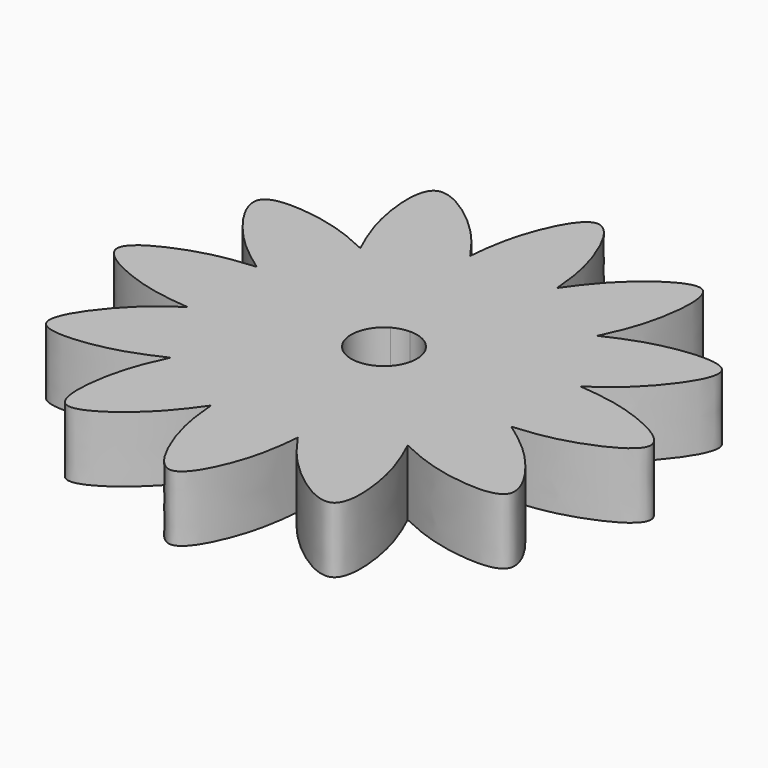
from build123d import *

# Parameters (mm, degrees)
F1_DEPTH = 3
F2_COUNT = 12


with BuildPart() as f1:
    # F0 (on Top) → F1 (new body)
    with BuildSketch(Plane.XY):
        with BuildLine():
            ThreePointArc((-2, 7.2284161474), (-4.5414755311, -5.9686681932), (7.5, 0))
            ThreePointArc((7.5, 0), (5.9686681932, 4.5414755311), (2, 7.2284161474))
            ThreePointArc((2, 7.2284161474), (1.0091776094, 7.4317938987), (0, 7.5))
            ThreePointArc((0, 7.5), (-1.0091776094, 7.4317938987), (-2, 7.2284161474))
        make_face()
        with BuildLine():
            ThreePointArc((1.5, 0), (-1.0606601718, -1.0606601718), (0, 1.5))
            ThreePointArc((0, 1.5), (1.0606601718, 1.0606601718), (1.5, 0))
        make_face(mode=Mode.SUBTRACT)
        with BuildLine():
            add(Edge.make_bspline(
                [(-2, 7.2284161474), (-1.9207715188, 8.1004158529), (-1.7670676263, 9.7907800709), (-0.5828160551, 12.2028380943), (0, 12.2)],
                knots=[0, 0, 0, 0, 0.2535053688, 0.5, 0.5, 0.5, 0.5], degree=3))
            ThreePointArc((-2, 7.2284161474), (-1.0091776094, 7.4317938987), (0, 7.5))
            Line((0, 7.5), (0, 10))
            Line((0, 10), (0, 12.2))
        make_face()
        with BuildLine():
            ThreePointArc((0, 7.5), (1.0091776094, 7.4317938987), (2, 7.2284161474))
            add(Edge.make_bspline(
                [(0, 12.2), (0.5828160551, 12.1971619057), (1.7629813168, 9.7735900641), (1.9291765813, 8.1417773558), (2, 7.2284161474)],
                knots=[0.5, 0.5, 0.5, 0.5, 0.7464946312, 1, 1, 1, 1], degree=3))
            Line((0, 12.2), (0, 10))
            Line((0, 10), (0, 7.5))
        make_face()
    extrude(amount=F1_DEPTH)

    # F2: F1 ×12 about axis
    f2_axis = Axis((0, 0, 3), (0, 0, -1))


with BuildPart() as f1_1:
    add(f1.part)
    for i in range(1, F2_COUNT):
        add(f1.part.rotate(f2_axis, i * 360 / F2_COUNT))


solid = f1_1.part
